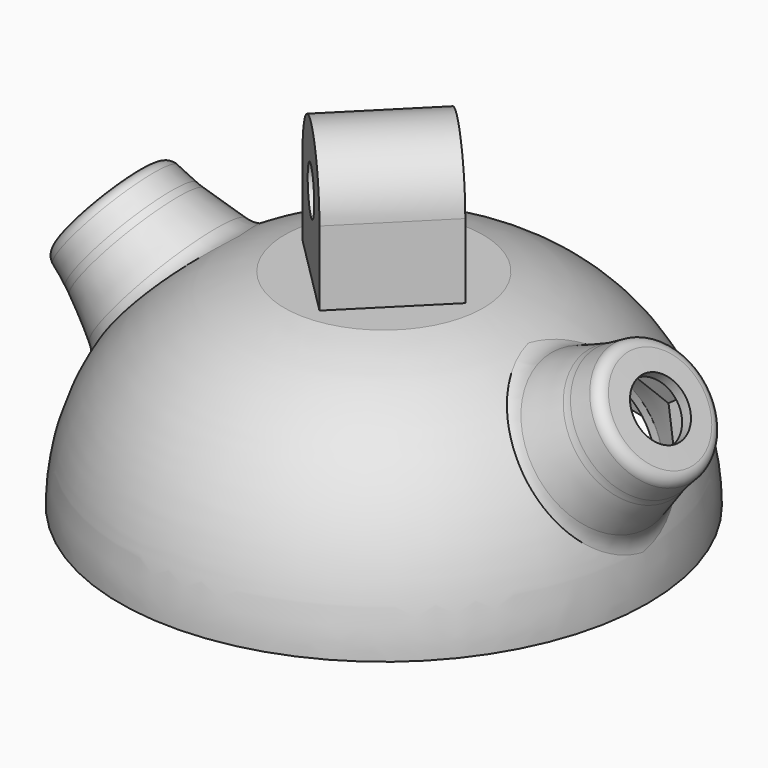
from build123d import *

# Parameters (mm, degrees)
SKETCH002_R       = 12
POCKET_DEPTH      = 5
POCKET_DEPTH_BACK = 100
POCKET001_DEPTH   = 13.02
SKETCH005_R       = 4
PAD_DEPTH         = 10
PAD_DEPTH_BACK    = 10
POCKET002_DEPTH   = 3


with BuildPart() as part:
    # Sketch → Revolution (revolve)
    with BuildSketch(Plane.XZ):
        with BuildLine():
            Line((0, 36), (17.326992, 36))
            ThreePointArc((46.08, 0), (38.009506, 23.036577), (17.326992, 36))
            Line((46.08, 0), (44.08, 0))
            ThreePointArc((44.08, 0), (36.515522, 21.702076), (17.1, 34))
            Line((0, 34), (17.1, 34))
            Line((0, 34), (0, 36))
        make_face()
    revolve(axis=Axis((0, 0, 0), (0, 0, 1)))

    # Sketch002 (on DatumPlane) → Pocket (cut, two sides)
    with BuildSketch(Plane(origin=(38.235484, 0, 22.750762), x_dir=(0, 1, 0), z_dir=(0.774187, 0, 0.632957))) as pocket_sk:
        Circle(SKETCH002_R)
    pocket = extrude(amount=-POCKET_DEPTH, mode=Mode.SUBTRACT) + extrude(pocket_sk.sketch, amount=POCKET_DEPTH_BACK, mode=Mode.SUBTRACT)

    # Sketch003 (on DatumPlane) → Revolution001 (revolve)
    with BuildSketch(Plane(origin=(4.169954, 0, -5.100389), x_dir=(-0.632957, 0, 0.774187), z_dir=(0, 1, 0))):
        with BuildLine():
            Line((12, 42.265416), (9.660254, 49.872306))
            Line((9.660254, 49.872306), (0, 49.872306))
            Line((0, 49.872306), (0, 54.872306))
            Line((0, 54.872306), (5, 54.872306))
            Line((5, 54.872306), (5, 56.872306))
            Line((5, 56.872306), (6.5, 56.872306))
            Line((6.5, 56.872306), (8.660254, 56.872306))
            ThreePointArc((10.628086, 55.22957), (9.941947, 56.407644), (8.660254, 56.872306))
            Line((10.628086, 55.22957), (11.266203, 51.714795))
            ThreePointArc((11.266203, 51.714795), (11.400402, 51.082997), (11.571873, 50.460281))
            Line((13.670871, 43.636099), (11.571873, 50.460281))
            ThreePointArc((13.670871, 43.636099), (14.66953, 41.833633), (16.31028, 40.586981))
            Line((12.450012, 40.992533), (16.31028, 40.586981))
            Line((12, 42.265416), (12.450012, 40.992533))
        make_face()
    revolution001 = revolve(axis=Axis((38.235484, 0, 22.750762), (0.787488, 0, 0.61633)))

    # Sketch004 (on DatumPlane) → Pocket001 (cut)
    with BuildSketch(Plane(origin=(36.573383, -0.012649, 21.393286), x_dir=(-0.607341, 0, 0.794442), z_dir=(0.794438, -0.002796, 0.607338))):
        Polygon((0, 8.660254), (-7.5, 4.330127), (-7.5, -4.330127), (0, -8.660254), (7.5, -4.330127), (7.5, 4.330127), align=None)
    pocket001 = extrude(amount=POCKET001_DEPTH, mode=Mode.SUBTRACT)

    # Mirrored: Pocket, Revolution001, Pocket001 across YZ
    add(pocket.mirror(Plane.YZ), mode=Mode.SUBTRACT)
    add(revolution001.mirror(Plane.YZ))
    add(pocket001.mirror(Plane.YZ), mode=Mode.SUBTRACT)

    # Sketch005 (on DatumPlane) → Pad (join, two sides)
    with BuildSketch(Plane(origin=(0, 0, 0), x_dir=(-0.707107, 0.707107, 0), z_dir=(0.707107, 0.707107, 0))) as pad_sk:
        with BuildLine():
            ThreePointArc((10.505553, 49.000029), (0, 59.505553), (-10.505553, 49.000029))
            Line((-10.505553, 49.000029), (-10.505553, 36))
            Line((-10.505553, 36), (10.505553, 36))
            Line((10.505553, 49.000029), (10.505553, 36))
        make_face()
        with Locations((0, 49)):
            Circle(SKETCH005_R, mode=Mode.SUBTRACT)
    extrude(amount=PAD_DEPTH)
    extrude(pad_sk.sketch, amount=-PAD_DEPTH_BACK)

    # Sketch006 (on Face33 of Pad) → Pocket002 (cut)
    with BuildSketch(Plane(origin=(7.071068, 7.071068, 0), x_dir=(0, 0, 1), z_dir=(0.707107, 0.707107, 0))):
        Polygon((55.5, 3.752777), (49, 7.505553), (42.5, 3.752777), (42.5, -3.752777), (49, -7.505553), (55.5, -3.752777), align=None)
    extrude(amount=-POCKET002_DEPTH, mode=Mode.SUBTRACT)


solid = part.part
